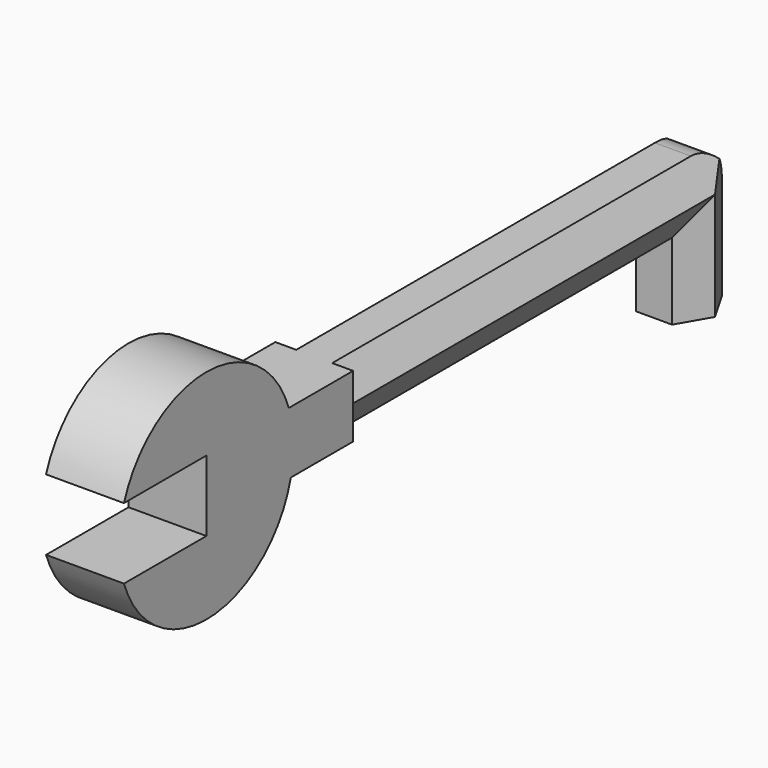
from build123d import *

# Parameters (mm, degrees)
F3_R     = 5
F5_DEPTH = 5


with BuildPart() as f2:
    # F2: sweep along a path in F1
    with BuildLine(Plane.YZ) as f2_path:
        Line((13.7373713946, 0), (13.7373713946, 15))
        Line((13.7373713946, 15), (-46.2626286054, 15))
    # F0 (on Top) → F2 (sweep)
    with BuildSketch(Plane.XY):
        Polygon((-2.3094010768, 16.5802386344), (-4.6188021535, 12.5802386344), (-2.3094010768, 8.5802386344), (2.3094010768, 8.5802386344), (4.6188021535, 12.5802386344), (2.3094010768, 16.5802386344), align=None)
    sweep(path=f2_path.line, transition=Transition.RIGHT)

    # F3
    f3_edges = [f2.edges().sort_by_distance(p)[0] for p in [
        (0, 16.580239, 17.842867),
    ]]
    fillet(f3_edges, radius=F3_R)

    # F4 (on Right) → F5 (join, symmetric)
    with BuildSketch(Plane.YZ):
        with BuildLine():
            Line((-69.568253388, 8.7428672398), (-82.8082496115, 8.7428672398))
            ThreePointArc((-82.8082496115, 8.7428672398), (-68.9942863231, -0.6953621624), (-56, 9.8428672398))
            Line((-56, 9.8428672398), (-46, 9.8428672398))
            Line((-46, 9.8428672398), (-46, 17.8428672398))
            Line((-46, 17.8428672398), (-56.3282571644, 17.8428672398))
            ThreePointArc((-56.3282571644, 17.8428672398), (-69.568253388, 27.2928672398), (-82.8082496115, 17.8428672398))
            Line((-82.8082496115, 17.8428672398), (-69.568253388, 17.8428672398))
            Line((-69.568253388, 17.8428672398), (-69.568253388, 8.7428672398))
        make_face()
    extrude(amount=F5_DEPTH, both=True)


solid = f2.part
